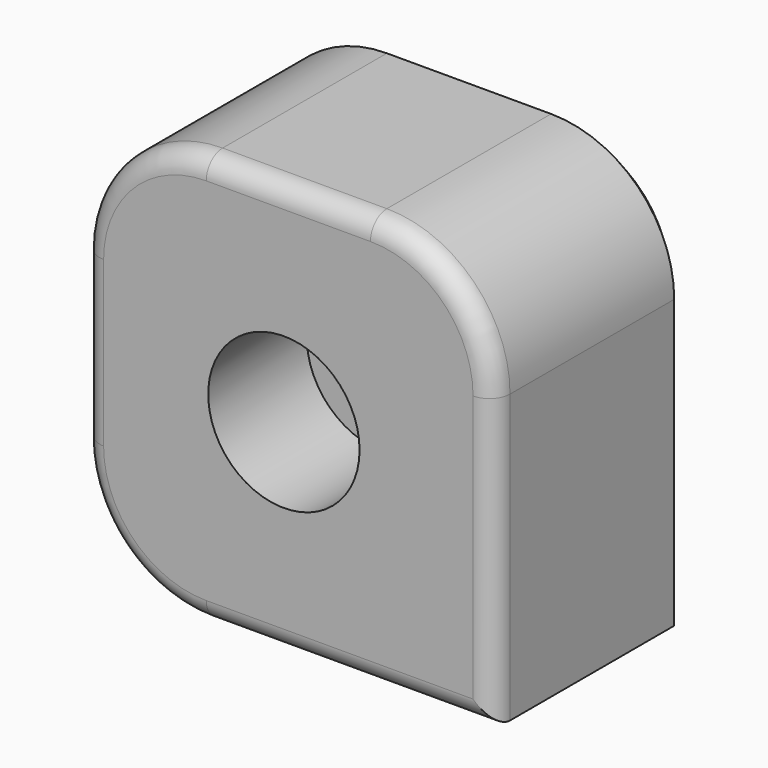
from build123d import *

# Parameters (mm, degrees)
F1_DEPTH = 60
F2_R     = 5
F3_SIZE  = 5
F4_R     = 18.436083
F5_DEPTH = 30


with BuildPart() as f1:
    # F0 (on Front) → F1 (new body)
    with BuildSketch(Plane.XZ):
        with BuildLine():
            Line((21.084471, 76.11473), (-18.915529, 76.11473))
            ThreePointArc((-18.915529, 76.11473), (-40.128732, 67.327933), (-48.915529, 46.11473))
            Line((-48.915529, 46.11473), (-48.915529, 6.11473))
            ThreePointArc((-48.915529, 6.11473), (-40.128732, -15.098474), (-18.915529, -23.88527))
            Line((-18.915529, -23.88527), (51.084471, -23.88527))
            Line((51.084471, -23.88527), (51.084471, 46.11473))
            ThreePointArc((51.084471, 46.11473), (42.297675, 67.327933), (21.084471, 76.11473))
        make_face()
    extrude(amount=F1_DEPTH)

    # F2
    f2_edges = [f1.edges().sort_by_distance(p)[0] for p in [
        (51.084471, -60, 11.11473),
        (42.297675, -60, 67.327933),
        (1.084471, -60, 76.11473),
        (-40.128732, -60, 67.327933),
        (-48.915529, -60, 26.11473),
        (-40.128732, -60, -15.098474),
        (16.084471, -60, -23.88527),
    ]]
    fillet(f2_edges, radius=F2_R)

    # F3
    f3_edges = [f1.edges().sort_by_distance(p)[0] for p in [
        (51.084471, 0, 11.11473),
        (42.297675, 0, 67.327933),
        (1.084471, 0, 76.11473),
        (-40.128732, 0, 67.327933),
        (-48.915529, 0, 26.11473),
        (-40.128732, 0, -15.098474),
        (16.084471, 0, -23.88527),
    ]]
    chamfer(f3_edges, length=F3_SIZE)

    # F4 (on face) → F5 (cut)
    with BuildSketch(Plane.XZ.offset(60)):
        with Locations((0, 25.528846)):
            Circle(F4_R)
    extrude(amount=-F5_DEPTH, mode=Mode.SUBTRACT)


solid = f1.part
